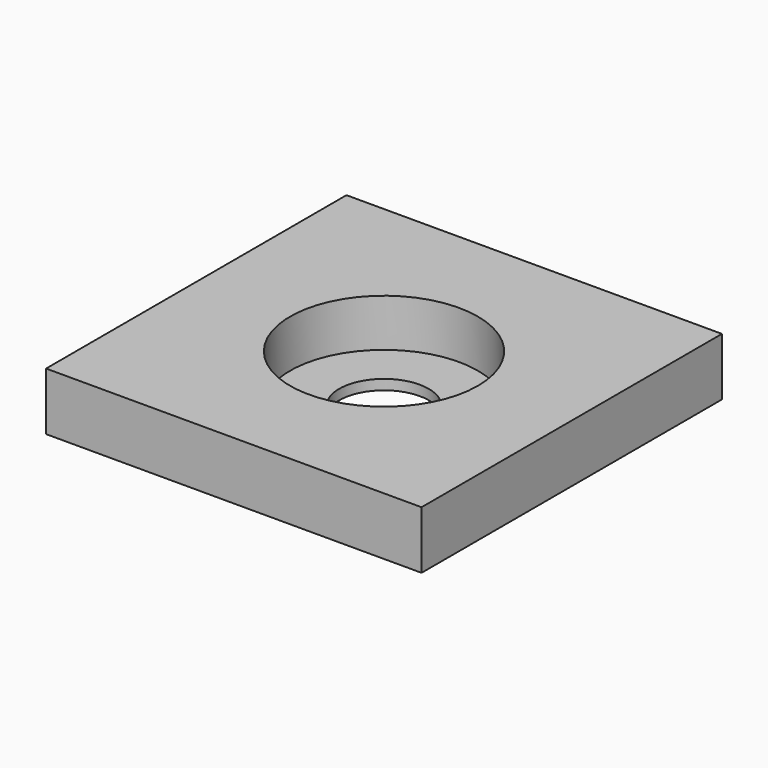
from build123d import *

# Parameters (mm, degrees)
F0_W     = 13
F0_H     = 13
F1_DEPTH = 2
F2_R     = 3.25
F3_DEPTH = 1.65
F4_R     = 1.55
F5_DEPTH = 1


with BuildPart() as f1:
    # F0 (on Top) → F1 (new body)
    with BuildSketch(Plane.XY):
        Rectangle(F0_W, F0_H)
    extrude(amount=F1_DEPTH)

    # F2 (on face) → F3 (cut)
    with BuildSketch(Plane.XY.offset(2)):
        Circle(F2_R)
    extrude(amount=-F3_DEPTH, mode=Mode.SUBTRACT)

    # F4 (on face) → F5 (cut)
    with BuildSketch(Plane.XY.offset(0.35)):
        Circle(F4_R)
    extrude(amount=-F5_DEPTH, mode=Mode.SUBTRACT)


solid = f1.part
